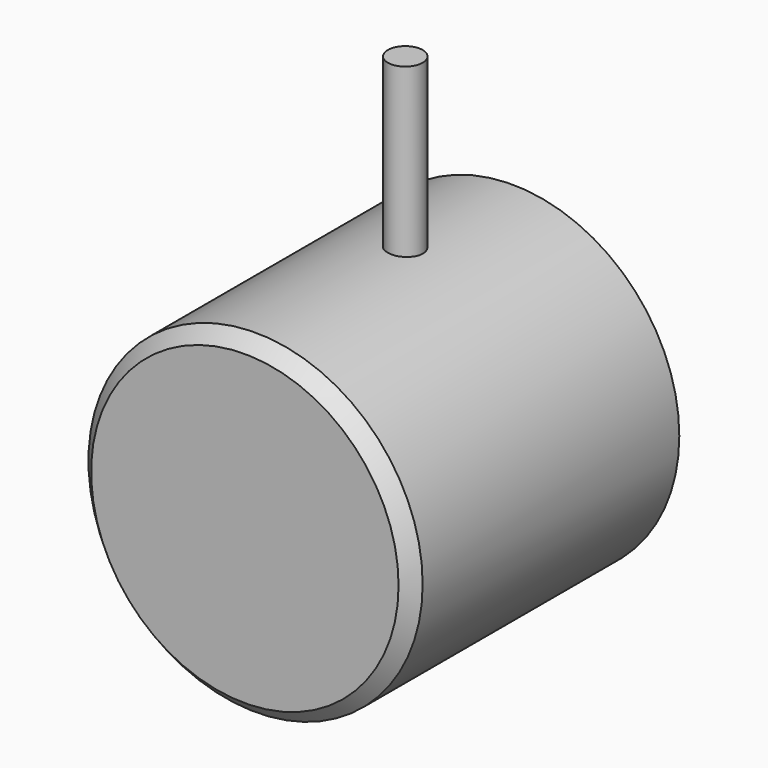
from build123d import *

# Parameters (mm, degrees)
F0_R           = 12.5
F1_DEPTH       = 25
F2_SIZE        = 1
F4_D           = 6
F4_DEPTH       = 20
F4_CBORE_D     = 14
F4_CBORE_DEPTH = 5
F4_TIP         = 1.8025818571
F5_R           = 1.3
F6_DEPTH       = 25


with BuildPart() as f1:
    # F0 (on Front) → F1 (new body)
    with BuildSketch(Plane.XZ):
        Circle(F0_R)
        Circle(F0_R)
    extrude(amount=F1_DEPTH)

    # F2
    f2_edges = [f1.edges().sort_by_distance(p)[0] for p in [
        (-12.5, -25, 0),
    ]]
    chamfer(f2_edges, length=F2_SIZE)

    # F4
    with Locations(Plane(origin=(0, 0, 0), x_dir=(-1, 0, 0), z_dir=(0, 1, 0))):
        with Locations((0, 0)):
            CounterBoreHole(F4_D / 2, F4_CBORE_D / 2, F4_CBORE_DEPTH, depth=F4_DEPTH)
            with Locations((0, 0, -(F4_DEPTH + F4_TIP / 2))):  # 118° drill point
                Cone(0, F4_D / 2, F4_TIP, mode=Mode.SUBTRACT)


with BuildPart() as f6:
    # F5 (on Top) → F6 (new body)
    with BuildSketch(Plane.XY):
        with Locations((0, -10)):
            Circle(F5_R)
    extrude(amount=F6_DEPTH)


solid = Compound([f1.part, f6.part])
